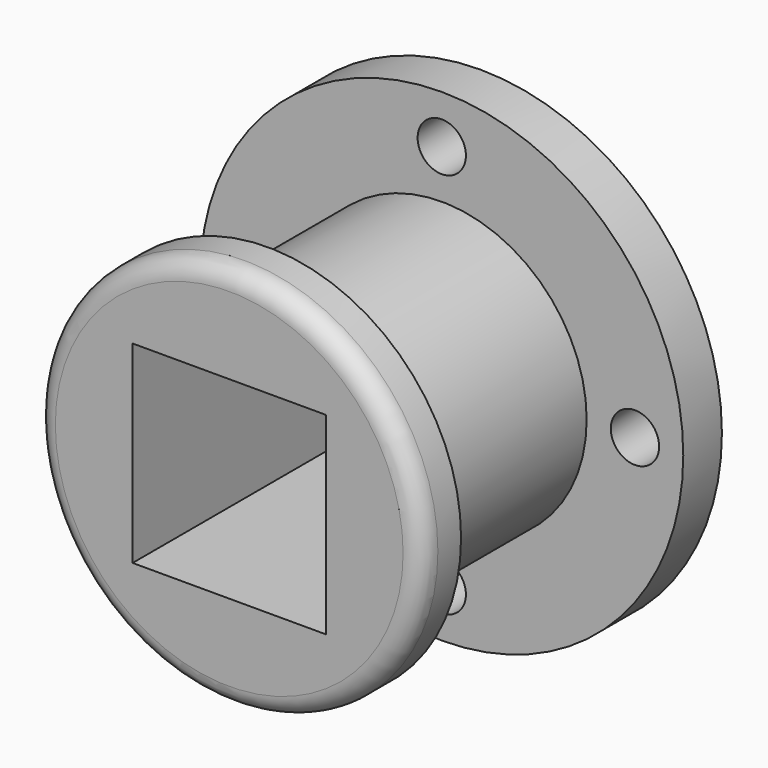
from build123d import *

# Parameters (mm, degrees)
F0_R     = 63.5
F1_DEPTH = 12.7
F2_R     = 6.35
F3_DEPTH = 12.7
F4_R     = 38.1
F5_DEPTH = 57.15
F6_R     = 50.8
F7_DEPTH = 12.7
F8_W     = 50.8
F8_H     = 50.8
F9_DEPTH = 101.6
F10_R    = 5.08


with BuildPart() as f1:
    # F0 (on Front) → F1 (new body)
    with BuildSketch(Plane.XZ):
        with Locations((-41.535247, 15.848976)):
            Circle(F0_R)
    extrude(amount=F1_DEPTH)

    # F2 (on face) → F3 (cut)
    with BuildSketch(Plane.XZ.offset(12.7)):
        with Locations((-41.535247, 66.648976)):
            Circle(F2_R)
        with Locations((-41.535247, -34.951024)):
            Circle(F2_R)
        with Locations((9.264753, 15.848976)):
            Circle(F2_R)
        with Locations((-92.335247, 15.848976)):
            Circle(F2_R)
    extrude(amount=-F3_DEPTH, mode=Mode.SUBTRACT)

    # F4 (on face) → F5 (join)
    with BuildSketch(Plane.XZ.offset(12.7)):
        with Locations((-41.535247, 15.848976)):
            Circle(F4_R)
    extrude(amount=F5_DEPTH)

    # F6 (on face) → F7 (join)
    with BuildSketch(Plane.XZ.offset(69.85)):
        with Locations((-41.535247, 15.848976)):
            Circle(F6_R)
    extrude(amount=F7_DEPTH)

    # F8 (on face) → F9 (cut)
    with BuildSketch(Plane.XZ.offset(82.55)):
        with Locations((-41.535247, 15.848976)):
            Rectangle(F8_W, F8_H)
    extrude(amount=-F9_DEPTH, mode=Mode.SUBTRACT)

    # F10
    f10_edges = [f1.edges().sort_by_distance(p)[0] for p in [
        (-92.335247, -82.55, 15.848976),
    ]]
    fillet(f10_edges, radius=F10_R)


solid = f1.part
